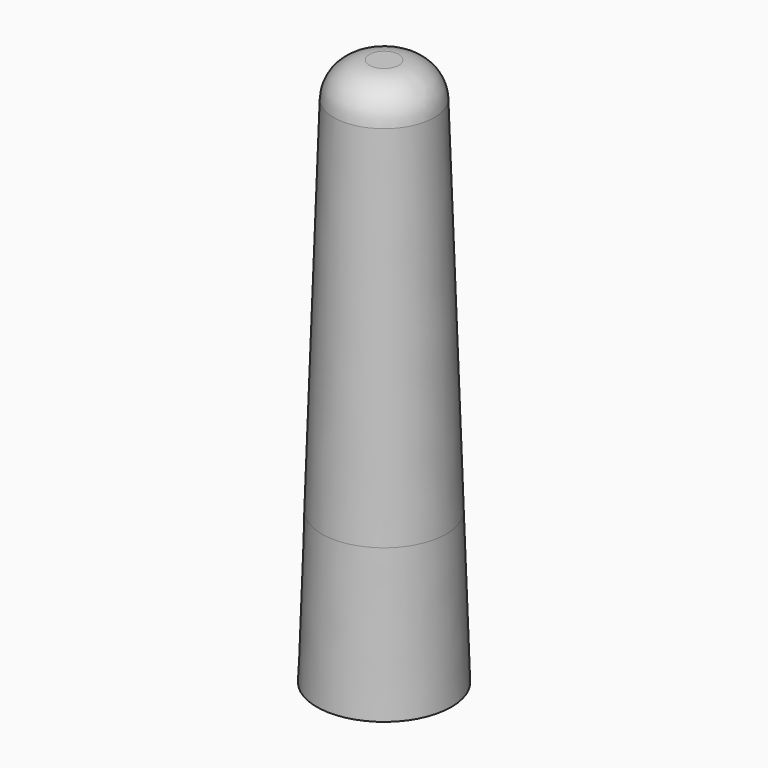
from build123d import *


with BuildPart() as f1:
    # F0 (on Front) → F1 (revolve)
    with BuildSketch(Plane.XZ):
        with BuildLine():
            Line((0, 48.26), (0, 0))
            Line((0, 0), (5.08, 0))
            Line((5.08, 0), (2.8448, 67.275295))
            ThreePointArc((2.8448, 67.275295), (0.835988, 71.802632), (-3.755558, 73.66))
            Line((-3.755558, 73.66), (-6.477, 73.66))
            Line((-6.477, 73.66), (-6.477, 48.26))
            Line((-6.477, 48.26), (0, 48.26))
        make_face()
        Polygon((5.08, 0), (0, 0), (0, -27.94), (6.008297, -27.94), align=None)
    revolve(axis=Axis((-6.477, 0, 60.96), (0, 0, -1)))


solid = f1.part
